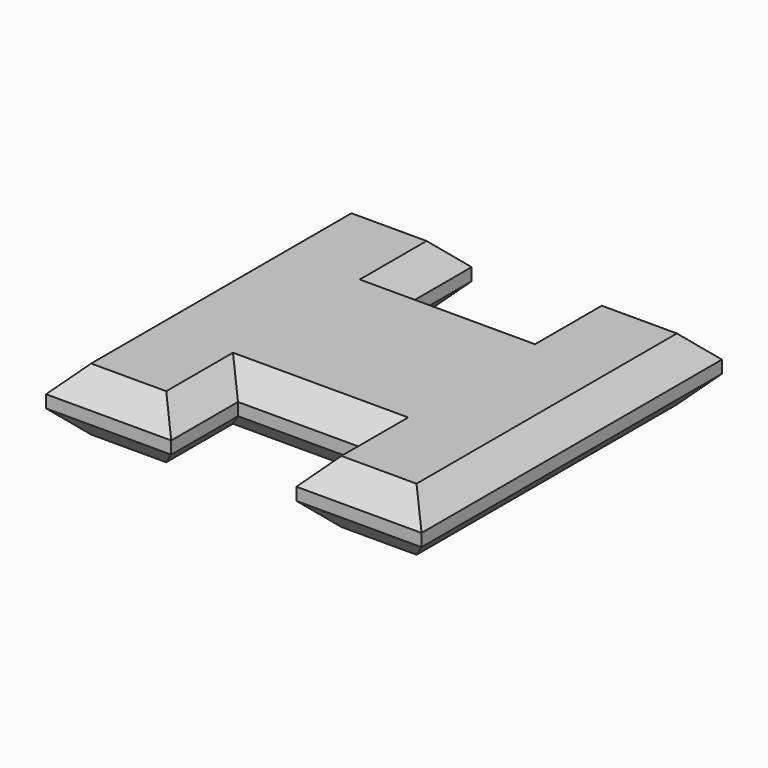
from build123d import *

# Parameters (mm, degrees)
F0_W     = 30
F0_H     = 20
F1_DEPTH = 15
F2_SIZE  = 6


with BuildPart() as f1:
    # F0 (on Top) → F1 (new body)
    with BuildSketch(Plane.XY):
        with Locations((-30, 35)):
            Rectangle(F0_W, F0_H)
        Polygon((45, -25), (45, 25), (15, 25), (-15, 25), (-45, 25), (-45, -25), (-15, -25), (15, -25), align=None)
        with Locations((30, 35)):
            Rectangle(F0_W, F0_H)
        with Locations((30, -35)):
            Rectangle(F0_W, F0_H)
        with Locations((-30, -35)):
            Rectangle(F0_W, F0_H)
    extrude(amount=F1_DEPTH)

    # F2
    f2_edges = [f1.edges().sort_by_distance(p)[0] for p in [
        (-15, 35, 15),
        (-30, 45, 15),
        (-45, 0, 15),
        (-30, -45, 15),
        (-15, -35, 15),
        (0, -25, 15),
        (15, -35, 15),
        (30, -45, 15),
        (45, 0, 15),
        (30, 45, 15),
        (15, 35, 15),
        (0, 25, 15),
        (-15, 35, 0),
        (-30, 45, 0),
        (-45, 0, 0),
        (-30, -45, 0),
        (-15, -35, 0),
        (0, -25, 0),
        (15, -35, 0),
        (30, -45, 0),
        (45, 0, 0),
        (30, 45, 0),
        (15, 35, 0),
        (0, 25, 0),
    ]]
    chamfer(f2_edges, length=F2_SIZE)


solid = f1.part
